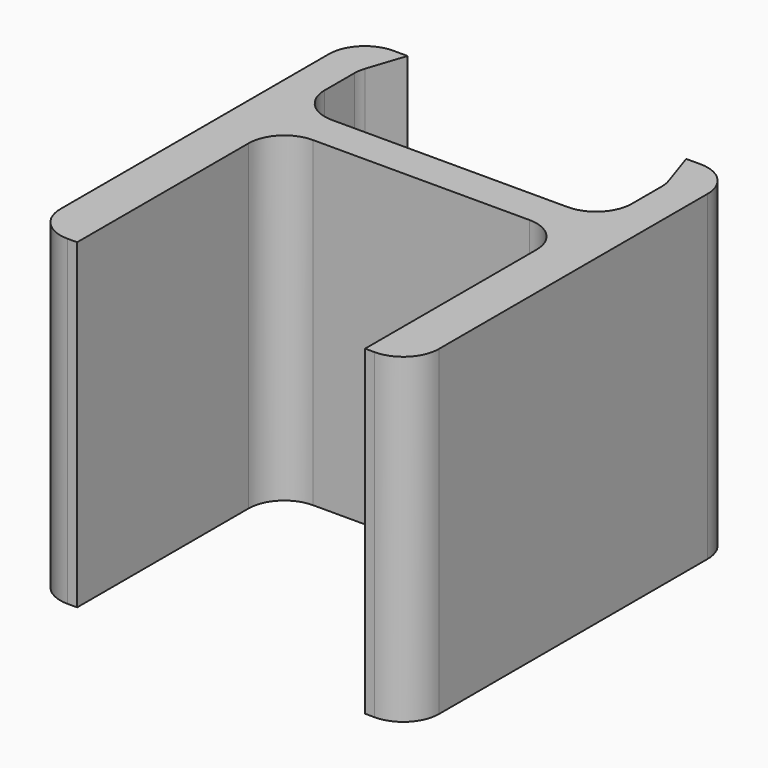
from build123d import *

# Parameters (mm, degrees)
F1_DEPTH = 45
F2_R     = 5
F3_R     = 5
F4_R     = 5


with BuildPart() as f1:
    # F0 (on Top) → F1 (new body)
    with BuildSketch(Plane.XY):
        Polygon((-26.5, -35), (-20.155, -35), (-20.155, 0), (20.155, 0), (20.155, -35), (26.5, -35), (26.5, 22), (21.5, 22), (19.5, 22), (21.5, 16), (21.5, 5), (-21.5, 5), (-21.5, 16), (-19.5, 22), (-21.5, 22), (-26.5, 22), align=None)
    extrude(amount=F1_DEPTH)

    # F2
    f2_edges = [f1.edges().sort_by_distance(p)[0] for p in [
        (26.5, -35, 22.5),
        (-26.5, -35, 22.5),
        (-26.5, 22, 22.5),
        (26.5, 22, 22.5),
    ]]
    fillet(f2_edges, radius=F2_R)

    # F3
    f3_edges = [f1.edges().sort_by_distance(p)[0] for p in [
        (-21.5, 16, 22.5),
        (21.5, 16, 22.5),
        (-21.5, 5, 22.5),
        (21.5, 5, 22.5),
    ]]
    fillet(f3_edges, radius=F3_R)

    # F4
    f4_edges = [f1.edges().sort_by_distance(p)[0] for p in [
        (-20.155, 0, 22.5),
        (20.155, 0, 22.5),
    ]]
    fillet(f4_edges, radius=F4_R)


solid = f1.part
